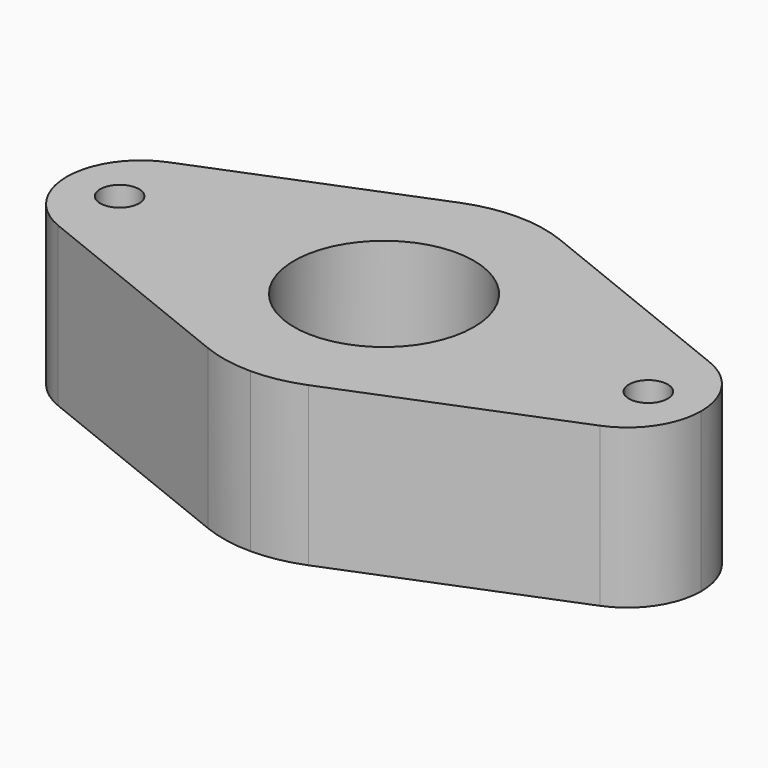
from build123d import *

# Parameters (mm, degrees)
F0_R     = 1.1
F0_R_2   = 5.1
F1_DEPTH = 9
F2_T     = -2.2


with BuildPart() as f1:
    # F0 (on Top) → F1 (new body)
    with BuildSketch(Plane.XY):
        with BuildLine():
            ThreePointArc((0, 9.476415), (-1.455718, 9.336863), (-2.858412, 8.923294))
            Line((-2.858412, 8.923294), (-15.369331, 3.893051))
            ThreePointArc((-15.369331, 3.893051), (-17.280674, 2.34927), (-18, 0))
            ThreePointArc((-18, 0), (-17.280674, -2.34927), (-15.369331, -3.893051))
            Line((-15.369331, -3.893051), (-2.858412, -8.923294))
            ThreePointArc((-2.858412, -8.923294), (-1.455718, -9.336863), (0, -9.476415))
            ThreePointArc((0, -9.476415), (1.455718, -9.336863), (2.858412, -8.923294))
            Line((2.858412, -8.923294), (15.369331, -3.893051))
            ThreePointArc((15.369331, -3.893051), (17.280674, -2.34927), (18, 0))
            ThreePointArc((18, 0), (17.280674, 2.34927), (15.369331, 3.893051))
            Line((15.369331, 3.893051), (2.858412, 8.923294))
            ThreePointArc((2.858412, 8.923294), (1.455718, 9.336863), (0, 9.476415))
        make_face()
        with Locations((-15, 0)):
            Circle(F0_R, mode=Mode.SUBTRACT)
        Circle(F0_R_2, mode=Mode.SUBTRACT)
        with Locations((15, 0)):
            Circle(F0_R, mode=Mode.SUBTRACT)
    extrude(amount=F1_DEPTH)

    # F2
    f2_openings = [f1.faces().sort_by_distance(p)[0] for p in [
        (8.962101, 6.030698, 0),
    ]]
    offset(amount=F2_T, openings=f2_openings)


solid = f1.part
